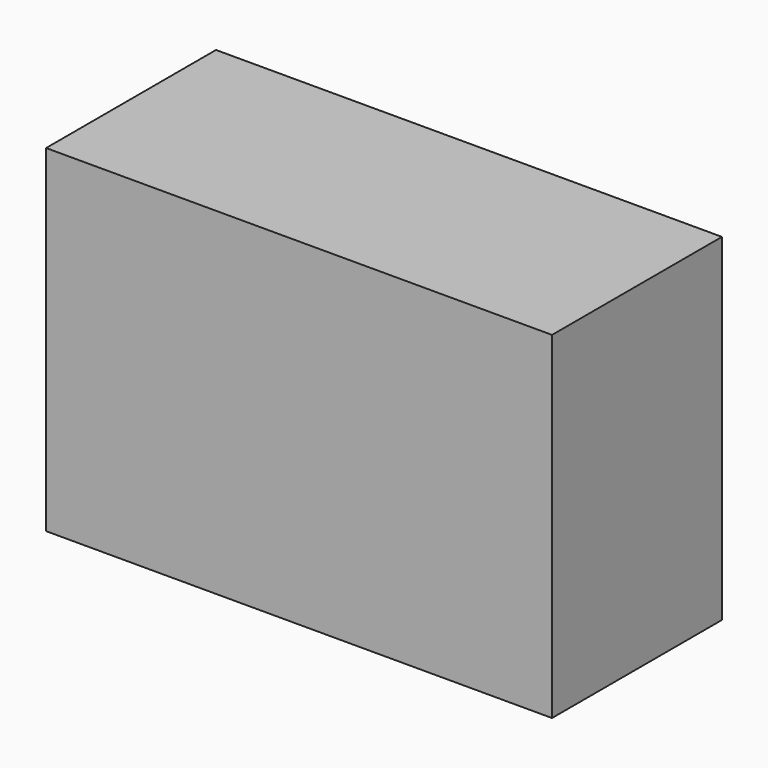
from build123d import *

# Parameters (mm, degrees)
F0_W = 405
F0_H = 170


with BuildPart() as f2:
    # F2: sweep along a path in F1
    with BuildLine(Plane.XZ) as f2_path:
        Line((0, 0), (0, 270))
    # F0 (on Top) → F2 (sweep)
    with BuildSketch(Plane.XY):
        Rectangle(F0_W, F0_H)
    sweep(path=f2_path.line)


solid = f2.part
